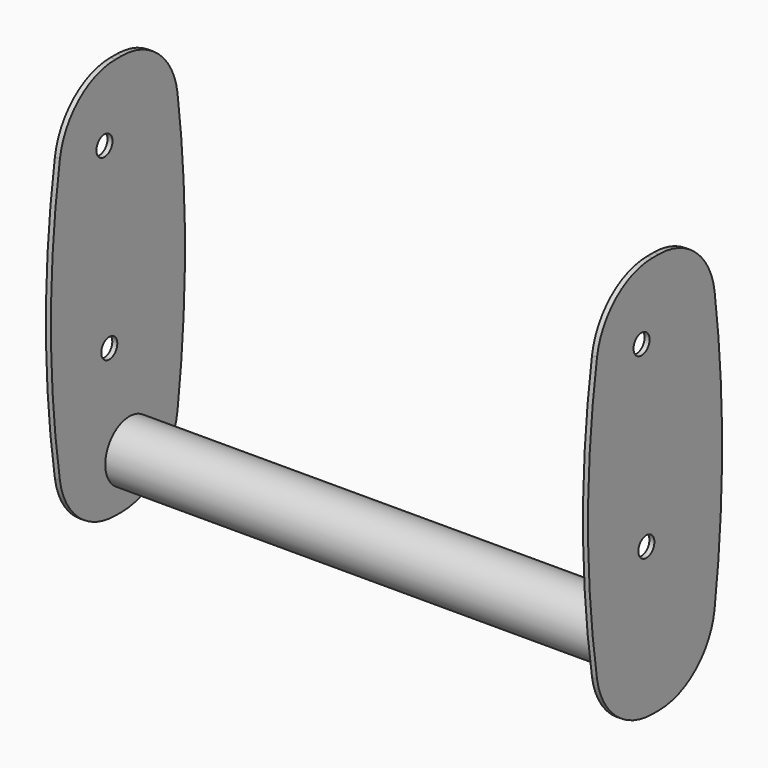
from build123d import *

# Parameters (mm, degrees)
F3_DEPTH      = 5
F4_R          = 70
F5_R          = 10
F6_DEPTH      = 5
F0_R          = 30
F0_R_2        = 27
F8_DEPTH      = 265
F8_DEPTH_BACK = 265


with BuildPart() as f3:
    # F2 (on offset) → F3 (new body)
    with BuildSketch(Plane.YZ.offset(265)):
        with BuildLine():
            Line((125, 500), (0, 500))
            ThreePointArc((0, 500), (-22.6578684459, 300), (0, 100))
            Line((0, 100), (125, 100))
            ThreePointArc((125, 100), (144.2504457375, 300), (125, 500))
        make_face()
    extrude(amount=F3_DEPTH)

    # F4
    f4_edges = [f3.edges().sort_by_distance(p)[0] for p in [
        (267.5, 0, 500),
        (267.5, 125, 500),
        (267.5, 0, 100),
        (267.5, 125, 100),
    ]]
    fillet(f4_edges, radius=F4_R)

    # F5 (on face) → F6 (cut, through all)
    with BuildSketch(Plane.YZ.offset(270)):
        with Locations((44.0011583269, 430)):
            Circle(F5_R)
        with Locations((50, 250)):
            Circle(F5_R)
    extrude(amount=-F6_DEPTH, mode=Mode.SUBTRACT)


with BuildPart() as f7_1:
    # F7: instance of F3
    add(f3.part.mirror(Plane.YZ))


with BuildPart() as f8:
    # F0 (on Right) → F8 (new body, two sides)
    with BuildSketch(Plane.YZ) as f8_sk:
        with Locations((75, 150)):
            Circle(F0_R)
        with Locations((75, 150)):
            Circle(F0_R_2, mode=Mode.SUBTRACT)
    extrude(amount=F8_DEPTH)
    extrude(f8_sk.sketch, amount=-F8_DEPTH_BACK)


solid = Compound([f3.part, f7_1.part, f8.part])
